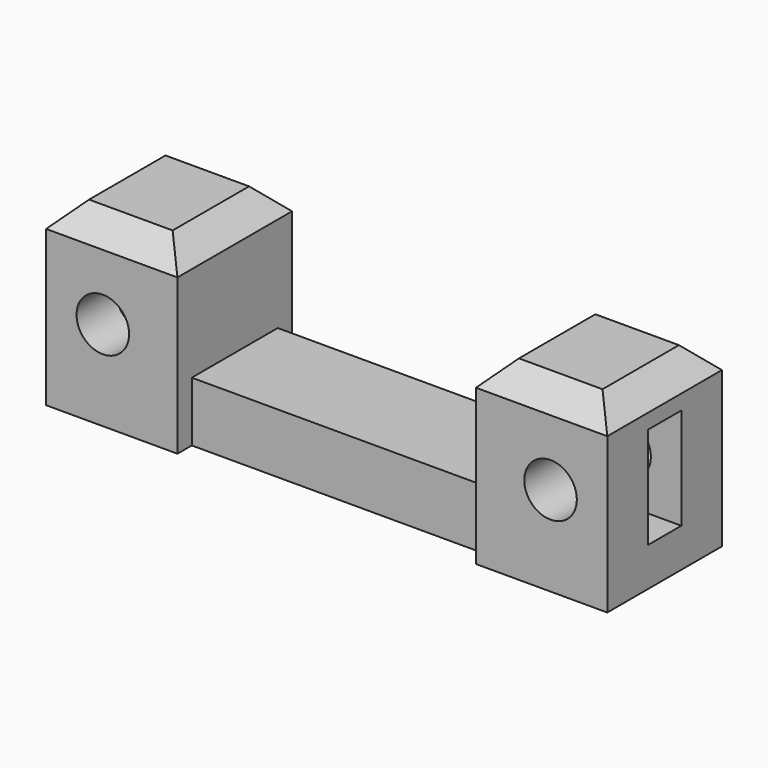
from build123d import *

# Parameters (mm, degrees)
F0_R     = 2.2
F1_DEPTH = 12
F2_W     = 3.5
F2_H     = 8.5
F3_DEPTH = 9.5
F4_W     = 3.7
F4_H     = 8.7
F5_DEPTH = 9.5
F6_W     = 25
F6_H     = 1.5
F7_DEPTH = 5.001
F8_SIZE  = 2


with BuildPart() as f1:
    # F0 (on Front) → F1 (new body)
    with BuildSketch(Plane.XZ):
        Polygon((11, 15), (0, 15), (0, 0), (47, 0), (47, 15), (36, 15), (36, 5), (11, 5), align=None)
        with Locations((4.75, 7.5)):
            Circle(F0_R, mode=Mode.SUBTRACT)
        with Locations((42.25, 7.5)):
            Circle(F0_R, mode=Mode.SUBTRACT)
    extrude(amount=F1_DEPTH)

    # F2 (on face) → F3 (cut)
    with BuildSketch(Plane.YZ.offset(47)):
        with Locations((-6, 7.5)):
            Rectangle(F2_W, F2_H)
    extrude(amount=-F3_DEPTH, mode=Mode.SUBTRACT)

    # F4 (on face) → F5 (cut)
    with BuildSketch(Plane(origin=(0, 0, 0), x_dir=(0, -1, 0), z_dir=(-1, 0, 0))):
        with Locations((6, 7.5)):
            Rectangle(F4_W, F4_H)
    extrude(amount=-F5_DEPTH, mode=Mode.SUBTRACT)

    # F6 (on face) → F7 (cut, through all)
    with BuildSketch(Plane.XY.offset(5)):
        with Locations((23.5, -0.75)):
            Rectangle(F6_W, F6_H)
        with Locations((23.5, -11.25)):
            Rectangle(F6_W, F6_H)
    extrude(amount=-F7_DEPTH, mode=Mode.SUBTRACT)

    # F8
    f8_edges = [f1.edges().sort_by_distance(p)[0] for p in [
        (11, -6, 15),
        (0, -6, 15),
        (5.5, 0, 15),
        (5.5, -12, 15),
        (47, -6, 15),
        (36, -6, 15),
        (41.5, 0, 15),
        (41.5, -12, 15),
    ]]
    chamfer(f8_edges, length=F8_SIZE)


solid = f1.part
